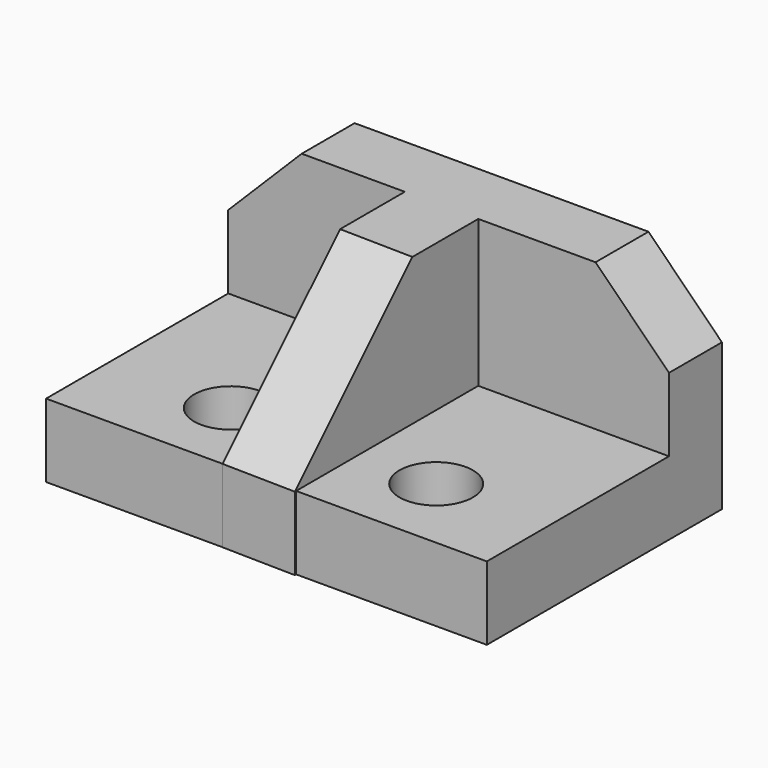
from build123d import *

# Parameters (mm, degrees)
F0_W     = 6
F0_H     = 3.099458
F0_R     = 0.5
F1_DEPTH = 1
F0_H_2   = 0.900542
F2_DEPTH = 3
F4_DEPTH = 3
F5_SIZE  = 1
F6_SIZE  = 1
F7_SIZE  = 2


with BuildPart() as f1:
    # F0 (on Top) → F1 (new body)
    with BuildSketch(Plane.XY):
        with Locations((-0.195067, 1.549729)):
            Rectangle(F0_W, F0_H)
        with Locations((-1.526971, 1.058547)):
            Circle(F0_R, mode=Mode.SUBTRACT)
        with Locations((1.269008, 1.058547)):
            Circle(F0_R, mode=Mode.SUBTRACT)
    extrude(amount=F1_DEPTH)

    # F0 (on Top) → F2 (join)
    with BuildSketch(Plane.XY):
        with Locations((-0.195067, 3.549729)):
            Rectangle(F0_W, F0_H_2)
    extrude(amount=F2_DEPTH)

    # F3 (on Top) → F4 (join)
    with BuildSketch(Plane.XY):
        Polygon((0.208575, 3.160667), (-0.791425, 3.173689), (-0.791425, -0.001802), (0.208575, -0.022109), align=None)
    extrude(amount=F4_DEPTH)

    # F5
    f5_edges = [f1.edges().sort_by_distance(p)[0] for p in [
        (2.804933, 3.549729, 3),
    ]]
    chamfer(f5_edges, length=F5_SIZE)

    # F6
    f6_edges = [f1.edges().sort_by_distance(p)[0] for p in [
        (-3.195067, 3.549729, 3),
    ]]
    chamfer(f6_edges, length=F6_SIZE)

    # F7
    f7_edges = [f1.edges().sort_by_distance(p)[0] for p in [
        (-0.291425, -0.011956, 3),
    ]]
    chamfer(f7_edges, length=F7_SIZE)


solid = f1.part
